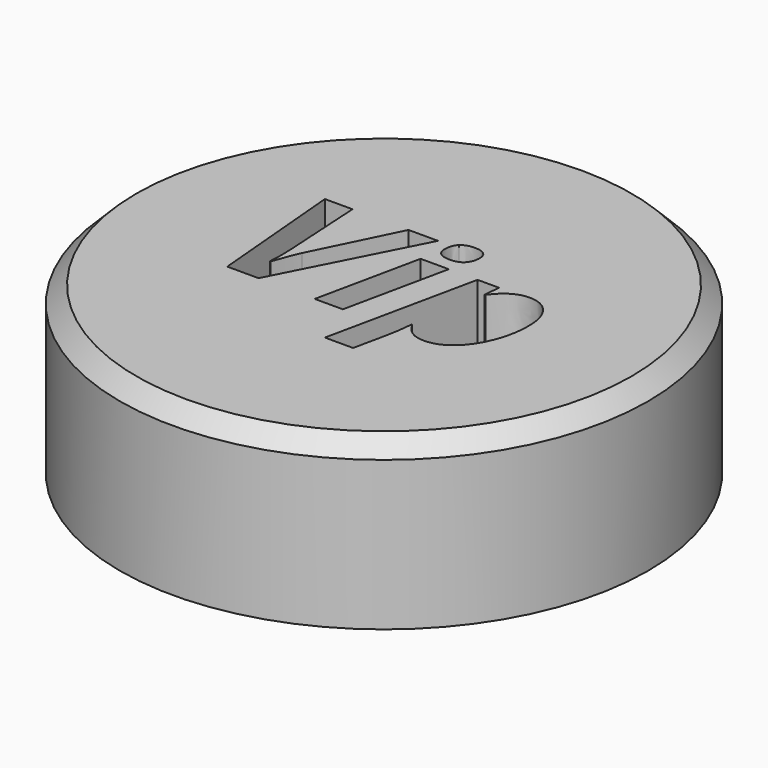
from build123d import *

# Parameters (mm, degrees)
F1_DEPTH = 25
F2_R     = 79.6498805285
F2_R_2   = 58.7498805617
F3_DEPTH = 50
F4_SIZE  = 5
F5_R     = 5


with BuildPart() as f1:
    # F0 (on Top) → F1 (new body)
    with BuildSketch(Plane.XY):
        with BuildLine():
            ThreePointArc((-58.7498805617, 0), (0, -58.7498805617), (58.7498805617, 0))
            ThreePointArc((58.7498805617, 0), (0, 58.7498805617), (-58.7498805617, 0))
        make_face()
        with BuildLine():
            Line((-28.5208848633, -7.3374048471), (-28.3221645254, -7.3374048471))
            add(Edge.make_bspline(
                [(-28.3221645254, -7.3374048471), (-26.118175323, -1.0957796878), (-25.2149010597, 0.656572383)],
                knots=[0, 0, 0, 1, 1, 1], degree=2))
            Line((-25.2149010597, 0.656572383), (-13.0206985053, 25.4966146234))
            Line((-13.0206985053, 25.4966146234), (-4.1053815266, 25.4966146234))
            Line((-4.1053815266, 25.4966146234), (-25.2149010597, -15.7739864662))
            Line((-25.2149010597, -15.7739864662), (-34.6450843684, -15.7739864662))
            Line((-34.6450843684, -15.7739864662), (-38.2310831936, 25.4966146234))
            Line((-38.2310831936, 25.4966146234), (-29.9028944861, 25.4966146234))
            Line((-29.9028944861, 25.4966146234), (-28.4666884075, 0.656572383))
            add(Edge.make_bspline(
                [(-28.4666884075, 0.656572383), (-28.3492627533, -0.6170443283), (-28.3492627533, -3.1010485523)],
                knots=[0, 0, 0, 1, 1, 1], degree=2))
            add(Edge.make_bspline(
                [(-28.3492627533, -3.1010485523), (-28.4034592091, -6.0095916801), (-28.5208848633, -7.3374048471)],
                knots=[0, 0, 0, 1, 1, 1], degree=2))
        make_face(mode=Mode.SUBTRACT)
        Polygon((6.9055317428, 15.786416293), (0.2122694519, -15.7739864662), (-8.278508623, -15.7739864662), (-1.5942790747, 15.786416293), align=None, mode=Mode.SUBTRACT)
        with BuildLine():
            add(Edge.make_bspline(
                [(21.836655315, 10.990029955), (25.7297673897, 16.3735445642), (30.7881032642, 16.3735445642)],
                knots=[0, 0, 0, 1, 1, 1], degree=2))
            add(Edge.make_bspline(
                [(30.7881032642, 16.3735445642), (34.9070339048, 16.3735445642), (37.2916779598, 13.3430594108)],
                knots=[0, 0, 0, 1, 1, 1], degree=2))
            add(Edge.make_bspline(
                [(37.2916779598, 13.3430594108), (39.6763220149, 10.3125742575), (39.6763220149, 4.8567977073)],
                knots=[0, 0, 0, 1, 1, 1], degree=2))
            add(Edge.make_bspline(
                [(39.6763220149, 4.8567977073), (39.6763220149, -0.5267169019), (37.7433150915, -5.5127908353)],
                knots=[0, 0, 0, 1, 1, 1], degree=2))
            add(Edge.make_bspline(
                [(37.7433150915, -5.5127908353), (35.810308168, -10.4988647686), (32.4501279086, -13.4209570104)],
                knots=[0, 0, 0, 1, 1, 1], degree=2))
            add(Edge.make_bspline(
                [(32.4501279086, -13.4209570104), (29.0899476492, -16.3430492521), (25.0523116923, -16.3430492521)],
                knots=[0, 0, 0, 1, 1, 1], degree=2))
            add(Edge.make_bspline(
                [(25.0523116923, -16.3430492521), (22.7128313504, -16.3430492521), (21.0191921067, -15.2952511067)],
                knots=[0, 0, 0, 1, 1, 1], degree=2))
            add(Edge.make_bspline(
                [(21.0191921067, -15.2952511067), (19.325552863, -14.2474529613), (17.8893467844, -11.7363505093)],
                knots=[0, 0, 0, 1, 1, 1], degree=2))
            Line((17.8893467844, -11.7363505093), (17.6635282186, -11.7363505093))
            add(Edge.make_bspline(
                [(17.6635282186, -11.7363505093), (17.3202839985, -16.2256235979), (16.4441079632, -20.0645392168)],
                knots=[0, 0, 0, 1, 1, 1], degree=2))
            Line((16.4441079632, -20.0645392168), (14.4117408708, -29.6663446356))
            Line((14.4117408708, -29.6663446356), (5.9119300532, -29.6663446356))
            Line((5.9119300532, -29.6663446356), (15.5679319278, 15.786416293))
            Line((15.5679319278, 15.786416293), (22.0624738808, 15.786416293))
            Line((22.0624738808, 15.786416293), (21.5837385213, 10.990029955))
            Line((21.5837385213, 10.990029955), (21.836655315, 10.990029955))
        make_face(mode=Mode.SUBTRACT)
        with BuildLine():
            add(Edge.make_bspline(
                [(4.0240868429, 19.7066265957), (-0.2393676798, 19.7066265957), (-0.2393676798, 23.1842325094)],
                knots=[0, 0, 0, 1, 1, 1], degree=2))
            add(Edge.make_bspline(
                [(-0.2393676798, 23.1842325094), (-0.2393676798, 25.6321057629), (1.1019946012, 26.8921733602)],
                knots=[0, 0, 0, 1, 1, 1], degree=2))
            add(Edge.make_bspline(
                [(1.1019946012, 26.8921733602), (2.4433568822, 28.1522409574), (4.9002628783, 28.1522409574)],
                knots=[0, 0, 0, 1, 1, 1], degree=2))
            add(Edge.make_bspline(
                [(4.9002628783, 28.1522409574), (6.9597281986, 28.1522409574), (8.0346245719, 27.2760649221)],
                knots=[0, 0, 0, 1, 1, 1], degree=2))
            add(Edge.make_bspline(
                [(8.0346245719, 27.2760649221), (9.1095209453, 26.3998888867), (9.1095209453, 24.7649624701)],
                knots=[0, 0, 0, 1, 1, 1], degree=2))
            add(Edge.make_bspline(
                [(9.1095209453, 24.7649624701), (9.1095209453, 22.5067768119), (7.8675188332, 21.1067017038)],
                knots=[0, 0, 0, 1, 1, 1], degree=2))
            add(Edge.make_bspline(
                [(7.8675188332, 21.1067017038), (6.6255167212, 19.7066265957), (4.0240868429, 19.7066265957)],
                knots=[0, 0, 0, 1, 1, 1], degree=2))
        make_face(mode=Mode.SUBTRACT)
    extrude(amount=F1_DEPTH)

    # F2 (on face) → F3 (join)
    with BuildSketch(Plane.XY.offset(25)):
        Circle(F2_R)
        Circle(F2_R_2, mode=Mode.SUBTRACT)
    extrude(amount=-F3_DEPTH)

    # F4
    f4_edges = [f1.edges().sort_by_distance(p)[0] for p in [
        (-79.649881, 0, 25),
    ]]
    chamfer(f4_edges, length=F4_SIZE)

    # F5
    f5_edges = [f1.edges().sort_by_distance(p)[0] for p in [
        (-58.749881, 0, -25),
    ]]
    fillet(f5_edges, radius=F5_R)


solid = f1.part
